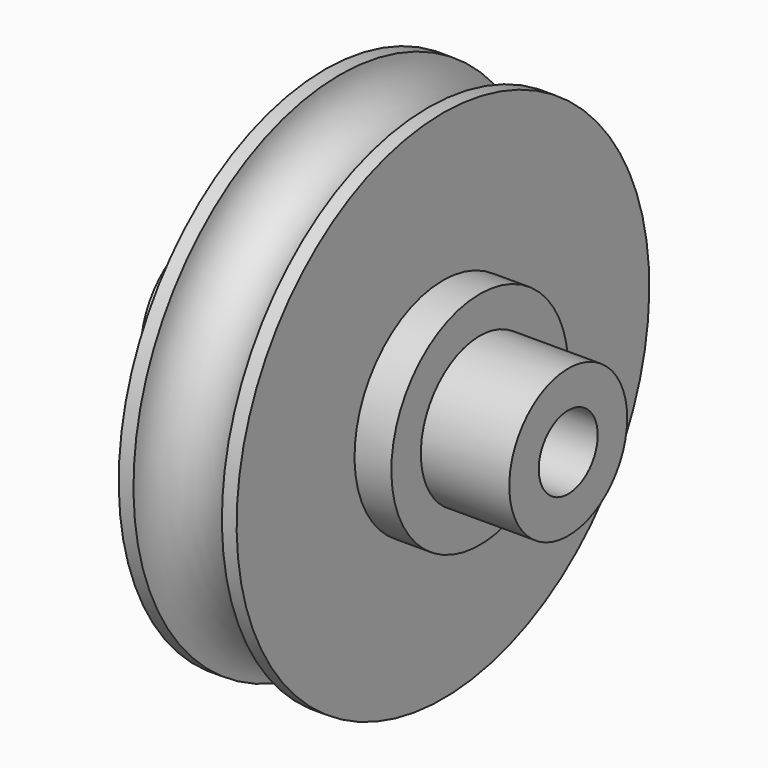
from build123d import *

# Parameters (mm, degrees)
F2_R     = 254
F3_DEPTH = 635
F4_R     = 127
F5_DEPTH = 1270.001


with BuildPart() as f1:
    # F0 (on Front) → F1 (revolve)
    with BuildSketch(Plane.XZ):
        with BuildLine():
            Line((-330.2, 381), (-330.2, 254))
            Line((-330.2, 254), (330.2, 254))
            Line((330.2, 254), (330.2, 381))
            Line((330.2, 381), (203.2, 381))
            Line((203.2, 381), (203.2, 889))
            Line((203.2, 889), (152.4, 889))
            ThreePointArc((152.4, 889), (0, 736.6), (-152.4, 889))
            Line((-152.4, 889), (-203.2, 889))
            Line((-203.2, 889), (-203.2, 381))
            Line((-203.2, 381), (-330.2, 381))
        make_face()
    revolve(axis=Axis((165.1, 0, 0), (1, 0, 0)))

    # F2 (on Right) → F3 (join, symmetric)
    with BuildSketch(Plane.YZ):
        Circle(F2_R)
    extrude(amount=F3_DEPTH, both=True)

    # F4 (on face) → F5 (cut, through all)
    with BuildSketch(Plane.YZ.offset(635)):
        Circle(F4_R)
    extrude(amount=-F5_DEPTH, mode=Mode.SUBTRACT)


solid = f1.part
